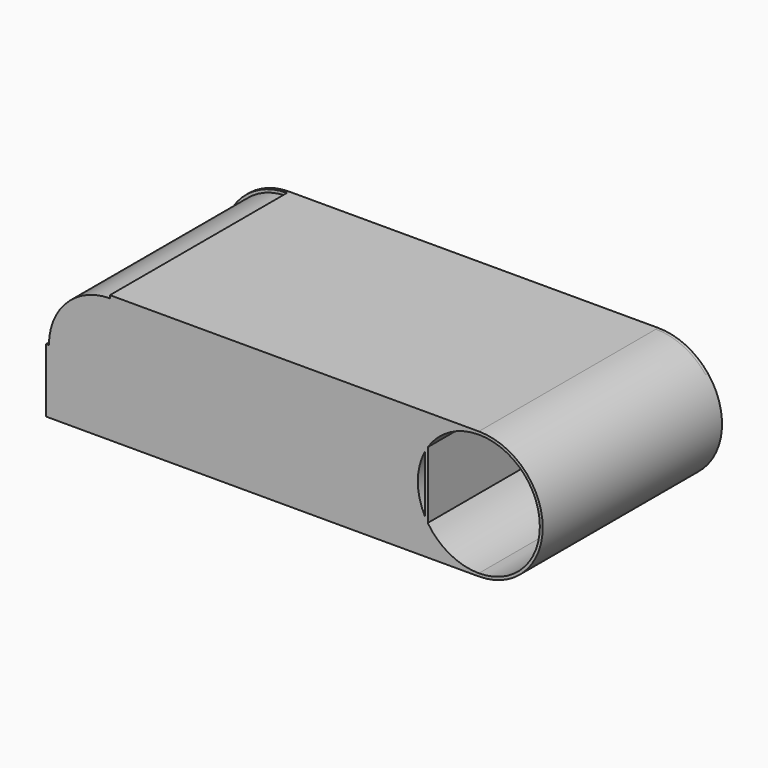
from build123d import *

# Parameters (mm, degrees)
F0_W      = 165
F0_H      = 45
F0_R      = 12.5
F1_DEPTH  = 1
F3_DEPTH  = 1
F4_DEPTH  = 25
F5_DEPTH  = 25
F6_R      = 13.5
F6_R_2    = 12.5
F7_DEPTH  = 5
F8_R      = 13.5
F8_R_2    = 5
F9_DEPTH  = 1
F11_DEPTH = 1
F12_W     = 1
F12_H     = 1
F12_H_2   = 36
F12_W_2   = 92
F13_DEPTH = 11
F14_W     = 94
F14_H     = 37
F15_DEPTH = 1
F16_W     = 1
F16_H     = 36
F17_DEPTH = 66
F18_W     = 26.2803444985
F18_H     = 1
F19_DEPTH = 3
F20_W     = 130
F20_H     = 1
F21_DEPTH = 78


with BuildPart() as f1:
    # F0 (on Front) → F1 (new body)
    with BuildSketch(Plane.XZ):
        Rectangle(F0_W, F0_H)
        with Locations((-65, 0)):
            Circle(F0_R, mode=Mode.SUBTRACT)
        with Locations((65, 0)):
            Circle(F0_R, mode=Mode.SUBTRACT)
    extrude(amount=F1_DEPTH)

    # F2 (on face) → F3 (join)
    with BuildSketch(Plane.XZ.offset(1)):
        with BuildLine():
            Line((68.3925151825, -19.0988145769), (65, -22.5))
            ThreePointArc((65, -22.5), (87.5, 0), (65, 22.5))
            Line((65, 22.5), (71.474224329, 16.2770561874))
            Line((71.474224329, 16.2770561874), (77.4062722921, 9.1145541519))
            Line((77.4062722921, 9.1145541519), (80.3926512599, 2.1407562308))
            Line((80.3926512599, 2.1407562308), (80.3926512599, -5.2317115478))
            Line((80.3926512599, -5.2317115478), (78.3914923668, -12.1520543471))
            Line((78.3914923668, -12.1520543471), (74.6632069349, -14.4081749022))
            Line((74.6632069349, -14.4081749022), (68.3925151825, -19.0988145769))
        make_face()
        with BuildLine():
            Line((-65, 14.9617949501), (-65, 22.5))
            ThreePointArc((-65, 22.5), (-87.5, 0), (-65, -22.5))
            Line((-65, -22.5), (-67.4760043621, -15.6979020685))
            Line((-67.4760043621, -15.6979020685), (-72.8440880775, -12.9142012447))
            Line((-72.8440880775, -12.9142012447), (-76.5851810575, -7.8018400818))
            Line((-76.5851810575, -7.8018400818), (-79.5639529824, 0))
            Line((-79.5639529824, 0), (-79.5639529824, 6.4657721668))
            Line((-79.5639529824, 6.4657721668), (-75.4495188594, 11.7608513683))
            Line((-75.4495188594, 11.7608513683), (-65, 14.9617949501))
        make_face()
    extrude(amount=-F3_DEPTH)

    # F2 (on face) → F4 (cut)
    with BuildSketch(Plane.XZ.offset(1)):
        with BuildLine():
            Line((-82.5, 22.5), (-82.5, 14.1421356237))
            ThreePointArc((-82.5, 14.1421356237), (-74.6966991411, 20.3033008589), (-65, 22.5))
            Line((-65, 22.5), (-82.5, 22.5))
        make_face()
    extrude(amount=-F4_DEPTH, mode=Mode.SUBTRACT)

    # F2 (on face) → F5 (cut)
    with BuildSketch(Plane.XZ.offset(1)):
        with BuildLine():
            ThreePointArc((82.5, -14.1421356237), (74.6966991411, -20.3033008589), (65, -22.5))
            Line((65, -22.5), (82.5, -22.5))
            Line((82.5, -22.5), (82.5, -14.1421356237))
        make_face()
        with BuildLine():
            ThreePointArc((65, 22.5), (74.6966991411, 20.3033008589), (82.5, 14.1421356237))
            Line((82.5, 14.1421356237), (82.5, 22.5))
            Line((82.5, 22.5), (65, 22.5))
        make_face()
        with BuildLine():
            Line((-82.5, -22.5), (-65, -22.5))
            ThreePointArc((-65, -22.5), (-74.6966991411, -20.3033008589), (-82.5, -14.1421356237))
            Line((-82.5, -14.1421356237), (-82.5, -22.5))
        make_face()
    extrude(amount=-F5_DEPTH, mode=Mode.SUBTRACT)

    # F6 (on face) → F7 (join)
    with BuildSketch(Plane.XZ.offset(1)):
        with Locations((-65, 0)):
            Circle(F6_R)
        with Locations((-65, 0)):
            Circle(F6_R_2, mode=Mode.SUBTRACT)
        with Locations((65, 0)):
            Circle(F6_R)
        with Locations((65, 0)):
            Circle(F6_R_2, mode=Mode.SUBTRACT)
    extrude(amount=F7_DEPTH)

    # F8 (on face) → F9 (join)
    with BuildSketch(Plane.XZ.offset(6)):
        with Locations((-65, 0)):
            Circle(F8_R)
        with Locations((-65, 0)):
            Circle(F8_R_2, mode=Mode.SUBTRACT)
        with Locations((65, 0)):
            Circle(F8_R)
        with Locations((65, 0)):
            Circle(F8_R_2, mode=Mode.SUBTRACT)
    extrude(amount=F9_DEPTH)

    # F10 (on face) → F11 (join)
    with BuildSketch(Plane.XZ.offset(1)):
        Polygon((-81.9395110011, 0), (-87.5, 0), (-87.5, -22.5), (-65, -22.5), (-65, -18.5897927731), (-73.3228996396, -16.0001199692), (-80.1934376359, -9.6208481118), align=None)
    extrude(amount=-F11_DEPTH)

    # F12 (on face) → F13 (join)
    with BuildSketch(Plane.XZ.offset(1)):
        with Locations((46.5, -14)):
            Rectangle(F12_W, F12_H)
        with Locations((46.5, 4.5)):
            Rectangle(F12_W, F12_H_2)
        with Locations((0, -14)):
            Rectangle(F12_W_2, F12_H)
        with Locations((-46.5, -14)):
            Rectangle(F12_W, F12_H)
        with Locations((-46.5, 4.5)):
            Rectangle(F12_W, F12_H_2)
    extrude(amount=F13_DEPTH)

    # F14 (on face) → F15 (join)
    with BuildSketch(Plane.XZ.offset(12)):
        with Locations((0, 4)):
            Rectangle(F14_W, F14_H)
    extrude(amount=F15_DEPTH)

    # F16 (on face) → F17 (join)
    with BuildSketch(Plane.XZ.offset(13)):
        with Locations((-46.5, 4.5)):
            Rectangle(F16_W, F16_H)
        with Locations((46.5, 4.5)):
            Rectangle(F16_W, F16_H)
    extrude(amount=F17_DEPTH)

    # F18 (on face) → F19 (join)
    with BuildSketch(Plane.XZ.offset(1)):
        with Locations((0.058112666, -11)):
            Rectangle(F18_W, F18_H)
    extrude(amount=F19_DEPTH)

    # F20 (on face) → F21 (join)
    with BuildSketch(Plane.XZ.offset(1)):
        with Locations((0, 22)):
            Rectangle(F20_W, F20_H)
        with BuildLine():
            ThreePointArc((65, -22.5), (87.5, 0), (65, 22.5))
            Line((65, 22.5), (65, 21.5))
            ThreePointArc((65, 21.5), (80.2027957955, 15.2027957955), (86.5, 0))
            ThreePointArc((86.5, 0), (80.2027957955, -15.2027957955), (65, -21.5))
            Line((65, -21.5), (65, -22.5))
        make_face()
        with BuildLine():
            Line((65, 21.5), (-65, 21.5))
            ThreePointArc((-65, 21.5), (-80.2027957955, 15.2027957955), (-86.5, 0))
            Line((-86.5, 0), (-86.5, -21.5))
            Line((-86.5, -21.5), (62.4147094786, -21.5))
            Line((62.4147094786, -21.5), (65, -21.5))
            ThreePointArc((65, -21.5), (43.5, 0), (65, 21.5))
        make_face()
        Polygon((-86.5, -22.5), (65, -22.5), (65, -21.5), (62.4147094786, -21.5), (-86.5, -21.5), align=None)
        Polygon((-86.5, -21.5), (-86.5, 0), (-87.5, 0), (-87.5, -22.5), (-86.5, -22.5), align=None)
    extrude(amount=F21_DEPTH)


solid = f1.part
